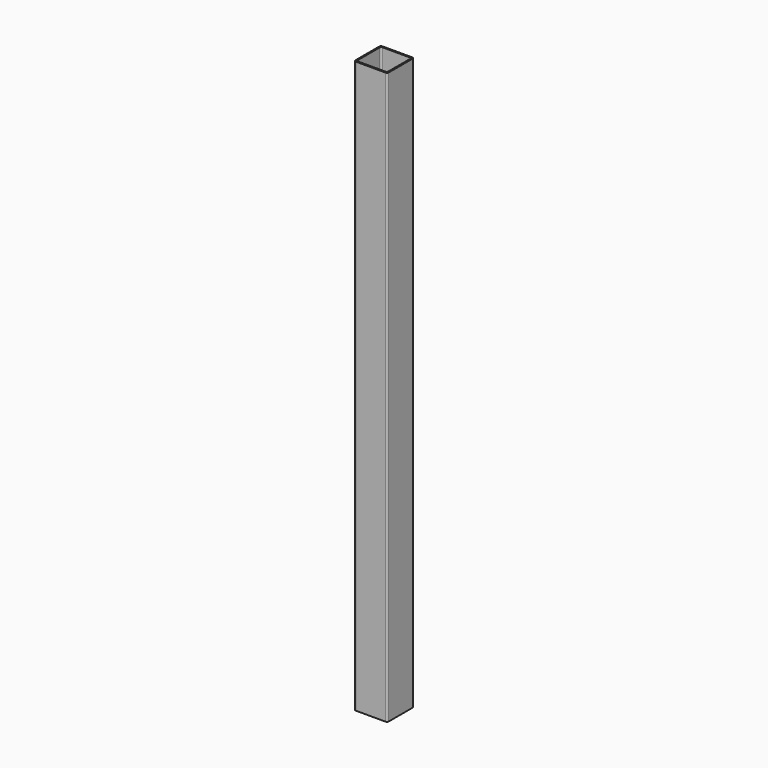
from build123d import *

# Parameters (mm, degrees)
F0_W     = 50
F0_H     = 50
F0_W_2   = 46
F0_H_2   = 46
F1_DEPTH = 860
F2_R     = 2.5
F3_R     = 2.5


with BuildPart() as f1:
    # F0 (on Top) → F1 (new body)
    with BuildSketch(Plane.XY):
        with Locations((-29.158926, 36.710037)):
            Rectangle(F0_W, F0_H)
        with Locations((-29.158926, 36.710037)):
            Rectangle(F0_W_2, F0_H_2, mode=Mode.SUBTRACT)
    extrude(amount=F1_DEPTH)

    # F2
    f2_edges = [f1.edges().sort_by_distance(p)[0] for p in [
        (-4.158926, 61.710037, 430),
        (-54.158926, 61.710037, 430),
        (-4.158926, 11.710037, 430),
        (-54.158926, 11.710037, 430),
    ]]
    fillet(f2_edges, radius=F2_R)

    # F3
    f3_edges = [f1.edges().sort_by_distance(p)[0] for p in [
        (-6.158926, 59.710037, 430),
        (-52.158926, 59.710037, 430),
        (-52.158926, 13.710037, 430),
        (-6.158926, 13.710037, 430),
    ]]
    fillet(f3_edges, radius=F3_R)


with BuildPart() as f4_1:
    # F4: copy of F1
    add(f1.part)


with BuildPart() as f6_1:
    # F6: copy of F1
    add(f1.part)


solid = f1.part
